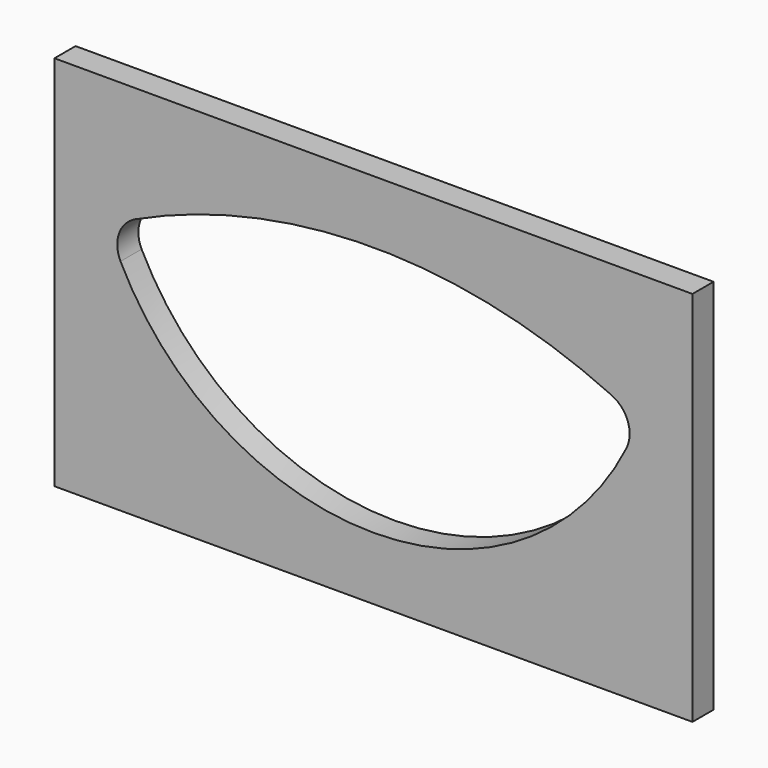
from build123d import *

# Parameters (mm, degrees)
F0_W     = 508
F0_H     = 300
F1_DEPTH = 21


with BuildPart() as f1:
    # F0 (on Front) → F1 (new body)
    with BuildSketch(Plane.XZ):
        with Locations((254, 150)):
            Rectangle(F0_W, F0_H)
        with BuildLine():
            ThreePointArc((64.245627, 208.035878), (254, 250), (443.754373, 208.035878))
            ThreePointArc((443.754373, 208.035878), (456.616189, 193.840292), (455.418317, 174.722078))
            ThreePointArc((455.418317, 174.722078), (254, 50), (52.581683, 174.722078))
            ThreePointArc((52.581683, 174.722078), (51.383811, 193.840292), (64.245627, 208.035878))
        make_face(mode=Mode.SUBTRACT)
    extrude(amount=F1_DEPTH)


solid = f1.part
